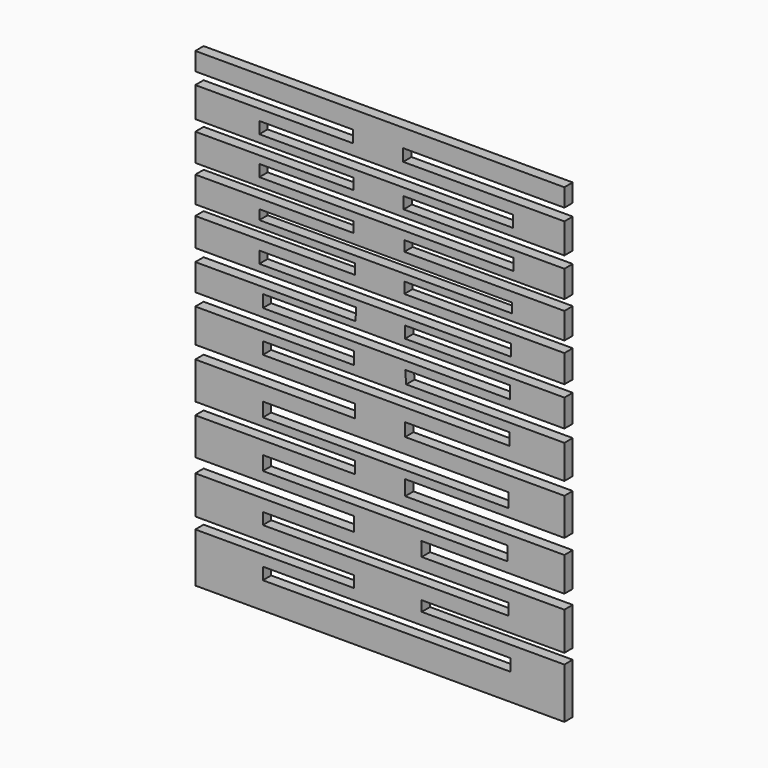
from build123d import *

# Parameters (mm, degrees)
F0_W     = 71.088023
F0_H     = 3.453668
F0_W_2   = 70.599534
F0_H_2   = 3.316156
F0_W_3   = 70.224609
F0_H_3   = 4.029283
F0_W_4   = 70.512414
F0_H_4   = 4.029279
F0_W_5   = 70.800219
F0_H_5   = 3.453669
F0_W_6   = 70.994157
F0_H_6   = 3.551615
F0_W_7   = 72.216179
F0_H_7   = 3.354305
F0_W_8   = 72.610803
F0_H_8   = 2.762366
F0_W_9   = 73.005423
F0_H_9   = 3.354303
F0_W_10  = 72.808113
F0_H_10  = 3.354299
F1_DEPTH = 3


with BuildPart() as f1:
    # F0 (on Front) → F1 (new body)
    with BuildSketch(Plane.XZ):
        Polygon((52.176289, 64.601567), (-53.791832, 64.601567), (-53.791832, 59.431892), (-8.49027, 59.431892), (-8.49027, 55.97822), (-53.791832, 55.97822), (-53.791832, 47.354873), (-8.385758, 47.354873), (-8.385758, 44.197883), (-53.791832, 44.197883), (-53.791832, 36.305401), (-8.385758, 36.305401), (-8.385758, 33.345722), (-53.791832, 33.345722), (-53.791832, 25.847867), (-7.991134, 25.847867), (-7.991134, 22.888189), (-53.791832, 22.888189), (-53.791832, 14.798397), (-7.596511, 14.798397), (-7.793822, 11.246782), (-53.791832, 11.246782), (-53.791832, 3.597572), (-8.202464, 3.597572), (-8.202464, 0), (-53.791832, 0), (-53.791832, -9.641493), (-7.914659, -9.641493), (-7.914659, -13.382968), (-53.791832, -13.382968), (-53.791832, -24.031783), (-7.914659, -24.031783), (-7.914659, -27.485449), (-53.791832, -27.485449), (-53.791832, -38.134262), (-8.202464, -38.134262), (-8.202464, -42.163543), (-53.791832, -42.163543), (-53.791832, -53.076919), (-8.202464, -53.076919), (-8.202464, -56.348752), (-53.791832, -56.348752), (-53.791832, -70.533961), (52.176289, -70.533961), (52.176289, -56.036595), (11.206436, -56.036595), (11.206436, -53.076919), (52.176289, -53.076919), (52.176289, -42.163543), (11.206436, -42.163543), (11.080521, -38.134262), (52.176289, -38.134262), (52.176289, -28.348867), (6.475631, -28.348867), (6.475631, -24.031783), (52.176289, -24.031783), (52.176289, -13.382968), (6.475631, -13.382968), (6.475631, -9.641493), (52.176289, -9.641493), (52.176289, 0), (6.763437, 0), (6.475631, 3.597572), (52.176289, 3.597572), (52.176289, 11.444095), (6.412639, 11.444095), (6.412639, 14.798397), (52.176289, 14.798397), (52.176289, 22.690875), (6.215328, 22.690875), (6.215328, 25.847867), (52.176289, 25.847867), (52.176289, 33.345722), (6.215328, 33.345722), (6.215328, 36.305401), (52.176289, 36.305401), (52.176289, 44.000566), (6.018014, 44.000566), (6.018014, 47.354873), (52.176289, 47.354873), (52.176289, 55.97822), (5.900018, 55.97822), (5.900018, 59.431892), (52.176289, 59.431892), align=None)
        with Locations((1.151222, -61.158726)):
            Rectangle(F0_W, F0_H, mode=Mode.SUBTRACT)
        with Locations((0.906978, -47.27529)):
            Rectangle(F0_W_2, F0_H_2, mode=Mode.SUBTRACT)
        with Locations((0.719515, -33.241566)):
            Rectangle(F0_W_3, F0_H_3, mode=Mode.SUBTRACT)
        with Locations((0.863418, -19.714693)):
            Rectangle(F0_W_4, F0_H_4, mode=Mode.SUBTRACT)
        with Locations((1.00732, -4.173183)):
            Rectangle(F0_W_5, F0_H_5, mode=Mode.SUBTRACT)
        with Locations((1.10429, 7.695167)):
            Rectangle(F0_W_6, F0_H_6, mode=Mode.SUBTRACT)
        with Locations((0.690593, 18.448668)):
            Rectangle(F0_W_7, F0_H_7, mode=Mode.SUBTRACT)
        with Locations((0.887905, 29.202171)):
            Rectangle(F0_W_8, F0_H_8, mode=Mode.SUBTRACT)
        with Locations((1.085214, 40.350296)):
            Rectangle(F0_W_9, F0_H_9, mode=Mode.SUBTRACT)
        with Locations((0.98656, 51.202455)):
            Rectangle(F0_W_10, F0_H_10, mode=Mode.SUBTRACT)
    extrude(amount=F1_DEPTH)


solid = f1.part
